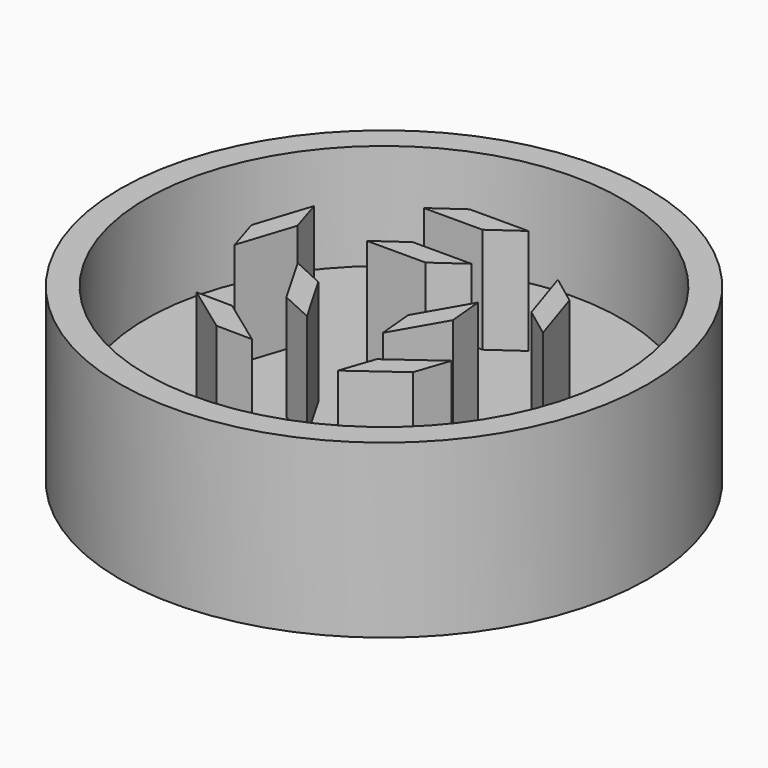
from build123d import *

# Parameters (mm, degrees)
F0_R     = 25.4
F1_DEPTH = 6.35
F2_R     = 22.86
F3_DEPTH = 10.16
F4_R     = 22.86
F4_R_2   = 20.32
F4_R_3   = 14.8488227635
F5_DEPTH = 10.16
F6_R     = 25.4
F6_R_2   = 22.86
F7_DEPTH = 10.16
F8_R     = 1.651
F9_DEPTH = 6.35


with BuildPart() as f1:
    # F0 (on Top) → F1 (new body)
    with BuildSketch(Plane.XY):
        Circle(F0_R)
    extrude(amount=F1_DEPTH)

    # F2 (on face) → F3 (join)
    with BuildSketch(Plane.XY.offset(6.35)):
        Circle(F2_R)
    extrude(amount=F3_DEPTH)

    # F4 (on face) → F5 (cut)
    with BuildSketch(Plane.XY.offset(16.51)):
        Circle(F4_R)
        Circle(F4_R_2, mode=Mode.SUBTRACT)
        Circle(F4_R_2)
        with BuildLine():
            ThreePointArc((2.8200390162, 17.158628647), (13.2553445021, 11.254643452), (17.3888227635, 0))
            ThreePointArc((17.3888227635, 0), (-11.254643452, -13.2553445021), (-2.8200390162, 17.158628647))
            ThreePointArc((-2.8200390162, 17.158628647), (0, 17.3888227635), (2.8200390162, 17.158628647))
        make_face(mode=Mode.SUBTRACT)
        with BuildLine():
            ThreePointArc((-2.8200390162, 17.158628647), (-11.254643452, -13.2553445021), (17.3888227635, 0))
            ThreePointArc((17.3888227635, 0), (13.2553445021, 11.254643452), (2.8200390162, 17.158628647))
            Line((2.8200390162, 17.158628647), (-2.8200390162, 17.158628647))
        make_face()
        Circle(F4_R_3, mode=Mode.SUBTRACT)
        Circle(F4_R_3)
        Polygon((-10.4057336106, -9.5245266735), (-6.9533198674, -9.5704237527), (-2.3904008896, -12.8855784419), (-5.8428146328, -12.8396813627), align=None, mode=Mode.SUBTRACT)
        Polygon((-7.4583858915, -1.049800532), (-4.3231170224, -2.4959527766), (-1.5030780063, -7.380403632), (-4.6383468754, -5.9342513873), align=None, mode=Mode.SUBTRACT)
        Polygon((5.8428146328, -12.8396813627), (6.9533198674, -9.5704237527), (11.5162388451, -6.2552690636), (10.4057336106, -9.5245266735), align=None, mode=Mode.SUBTRACT)
        Polygon((4.6383468754, -5.9342513873), (4.3231170224, -2.4959527766), (7.1431560386, 2.3884980787), (7.4583858915, -1.049800532), align=None, mode=Mode.SUBTRACT)
        Polygon((-12.2739116821, 6.9532001517), (-11.2507078801, 3.6555765868), (-12.9935878417, -1.7084563782), (-14.0167916437, 1.5891671866), align=None, mode=Mode.SUBTRACT)
        Polygon((2.8200390162, 6.9840519193), (0, 4.9919055533), (-5.6400780323, 4.9919055533), (-2.8200390162, 6.9840519193), align=None, mode=Mode.SUBTRACT)
        Polygon((2.8200390162, 13.8218406978), (0, 11.8296943319), (-5.6400780323, 11.8296943319), (-2.8200390162, 13.8218406978), align=None, mode=Mode.SUBTRACT)
        Polygon((14.0167916437, 1.5891671866), (11.2507078801, 3.6555765868), (9.5078279185, 9.0196095519), (12.2739116821, 6.9532001517), align=None, mode=Mode.SUBTRACT)
        with BuildLine():
            Line((-2.8200390162, 17.158628647), (2.8200390162, 17.158628647))
            ThreePointArc((2.8200390162, 17.158628647), (0, 17.3888227635), (-2.8200390162, 17.158628647))
        make_face()
    extrude(amount=-F5_DEPTH, mode=Mode.SUBTRACT)

    # F6 (on face) → F7 (join)
    with BuildSketch(Plane.XY.offset(6.35)):
        Circle(F6_R)
        Circle(F6_R_2, mode=Mode.SUBTRACT)
    extrude(amount=F7_DEPTH)

    # F8 (on face) → F9 (cut, through all)
    with BuildSketch(Plane.XY.offset(6.35)):
        Circle(F8_R)
    extrude(amount=-F9_DEPTH, mode=Mode.SUBTRACT)


solid = f1.part
